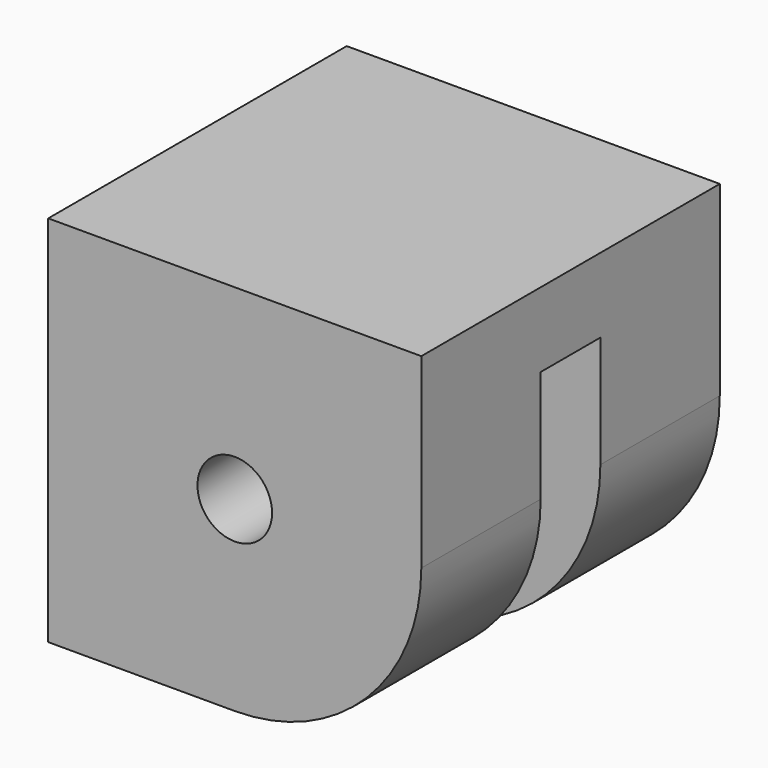
from build123d import *

# Parameters (mm, degrees)
F0_R     = 3.175
F1_DEPTH = 31.75
F2_W     = 12.7
F2_H     = 1.5875
F3_DEPTH = 22.225
F4_W     = 15.875
F4_H     = 6.35
F4_W_2   = 9.525
F5_DEPTH = 25.4


with BuildPart() as f1:
    # F0 (on Front) → F1 (new body)
    with BuildSketch(Plane.XZ):
        with BuildLine():
            Line((15.875, -15.875), (15.875, 0))
            Line((15.875, 0), (-15.875, 0))
            Line((-15.875, 0), (-15.875, -31.75))
            Line((-15.875, -31.75), (0, -31.75))
            ThreePointArc((0, -31.75), (11.22532, -27.10032), (15.875, -15.875))
        make_face()
        with Locations((0, -15.875)):
            Circle(F0_R, mode=Mode.SUBTRACT)
    extrude(amount=-F1_DEPTH)

    # F2 (on face) → F3 (cut)
    with BuildSketch(Plane(origin=(-15.875, 0, 0), x_dir=(0, -1, 0), z_dir=(-1, 0, 0))):
        with Locations((-17.78, -2.38125)):
            Rectangle(F2_W, F2_H)
    extrude(amount=-F3_DEPTH, mode=Mode.SUBTRACT)

    # F4 (on face) → F5 (cut)
    with BuildSketch(Plane(origin=(0, 0, -31.75), x_dir=(1, 0, 0), z_dir=(0, 0, -1))):
        with Locations((7.9375, -15.875)):
            Rectangle(F4_W, F4_H)
        with Locations((-4.7625, -15.875)):
            Rectangle(F4_W_2, F4_H)
    extrude(amount=-F5_DEPTH, mode=Mode.SUBTRACT)


solid = f1.part
